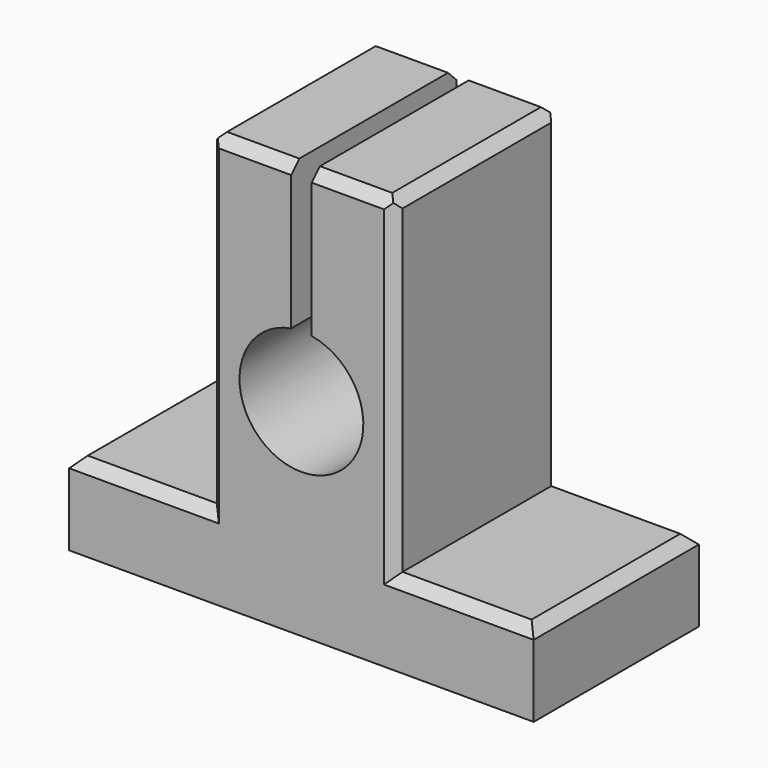
from build123d import *

# Parameters (mm, degrees)
F1_DEPTH = 20
F2_SIZE  = 1
F3_SIZE  = 1
F4_SIZE  = 1


with BuildPart() as f1:
    # F0 (on Front) → F1 (new body)
    with BuildSketch(Plane.XZ):
        with BuildLine():
            Line((-9, -12), (-22.5, -12))
            Line((-22.5, -12), (-22.5, -20))
            Line((-22.5, -20), (22.5, -20))
            Line((22.5, -20), (22.5, -12))
            Line((22.5, -12), (9, -12))
            Line((9, -12), (9, 20))
            Line((9, 20), (1, 20))
            Line((1, 20), (1, 5.91608))
            ThreePointArc((1, 5.91608), (0, -6), (-1, 5.91608))
            Line((-1, 5.91608), (-1, 20))
            Line((-1, 20), (-9, 20))
            Line((-9, 20), (-9, -12))
        make_face()
    extrude(amount=F1_DEPTH)

    # F2
    f2_edges = [f1.edges().sort_by_distance(p)[0] for p in [
        (-5, -20, 20),
        (-5, 0, 20),
        (5, 0, 20),
        (5, -20, 20),
        (9, -10, 20),
        (-9, -10, 20),
    ]]
    chamfer(f2_edges, length=F2_SIZE)

    # F3
    f3_edges = [f1.edges().sort_by_distance(p)[0] for p in [
        (15.75, 0, -12),
        (15.75, -20, -12),
        (22.5, -10, -12),
        (-15.75, -20, -12),
        (-22.5, -10, -12),
        (-15.75, 0, -12),
    ]]
    chamfer(f3_edges, length=F3_SIZE)

    # F4
    f4_edges = [f1.edges().sort_by_distance(p)[0] for p in [
        (9, 0, 3.5),
        (-9, 0, 3.5),
        (9, -20, 3.5),
        (-9, -20, 3.5),
    ]]
    chamfer(f4_edges, length=F4_SIZE)


solid = f1.part
